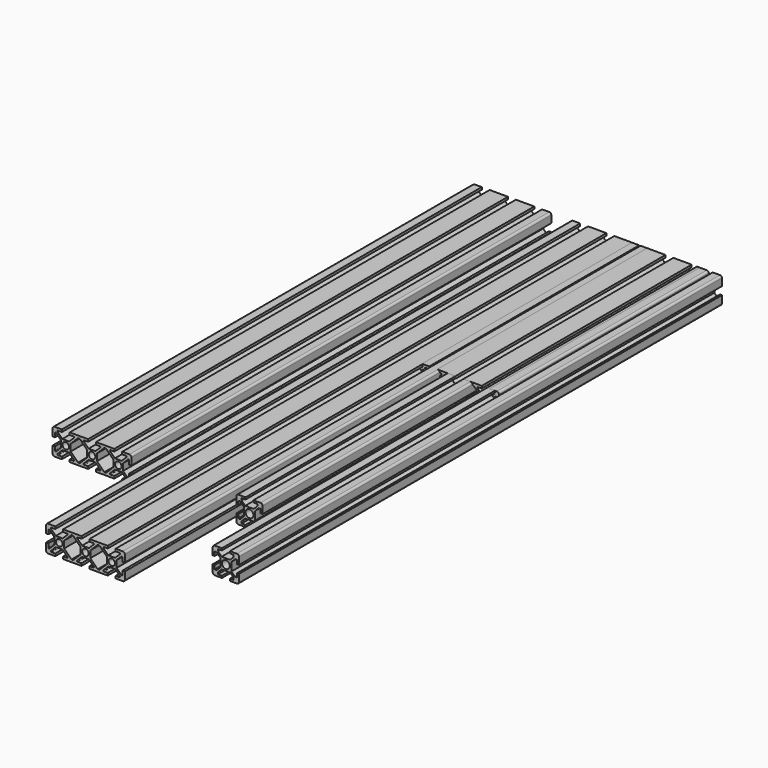
from build123d import *

# Parameters (mm, degrees)
F0_R     = 3
F1_DEPTH = 460
F2_DEPTH = 400
F4_R     = 2.5
F5_DEPTH = 500
F6_DEPTH = 400
F9_DEPTH = 200


with BuildPart() as f1:
    # F0 (on Front) → F1 (new body)
    with BuildSketch(Plane.XZ):
        with BuildLine():
            Line((-6, -7), (-3.25, -4.25))
            Line((-3.25, -4.25), (-4.25, -4.25))
            Line((-4.25, -4.25), (-4.25, -3.25))
            Line((-4.25, -3.25), (-7, -6))
            Line((-7, -6), (-8.5, -6))
            Line((-8.5, -6), (-8.5, -3))
            Line((-8.5, -3), (-10, -3))
            Line((-10, -3), (-10, -8.5))
            ThreePointArc((-10, -8.5), (-9.56066, -9.56066), (-8.5, -10))
            Line((-8.5, -10), (-3, -10))
            Line((-3, -10), (-3, -8.5))
            Line((-3, -8.5), (-6, -8.5))
            Line((-6, -8.5), (-6, -7))
        make_face()
        Polygon((-3.25, -4.25), (3.25, -4.25), (4.25, -4.25), (4.25, -3.25), (4.25, 3.25), (4.25, 4.25), (3.25, 4.25), (-3.25, 4.25), (-4.25, 4.25), (-4.25, 3.25), (-4.25, -3.25), (-4.25, -4.25), align=None)
        Circle(F0_R, mode=Mode.SUBTRACT)
        with BuildLine():
            Line((3, -10), (8.5, -10))
            ThreePointArc((8.5, -10), (9.56066, -9.56066), (10, -8.5))
            Line((10, -8.5), (10, -3))
            Line((10, -3), (8.5, -3))
            Line((8.5, -3), (8.5, -6))
            Line((8.5, -6), (7, -6))
            Line((7, -6), (4.25, -3.25))
            Line((4.25, -3.25), (4.25, -4.25))
            Line((4.25, -4.25), (3.25, -4.25))
            Line((3.25, -4.25), (6, -7))
            Line((6, -7), (6, -8.5))
            Line((6, -8.5), (3, -8.5))
            Line((3, -8.5), (3, -10))
        make_face()
        with BuildLine():
            Line((4.25, 4.25), (4.25, 3.25))
            Line((4.25, 3.25), (7, 6))
            Line((7, 6), (8.5, 6))
            Line((8.5, 6), (8.5, 3))
            Line((8.5, 3), (10, 3))
            Line((10, 3), (10, 8.5))
            ThreePointArc((10, 8.5), (9.56066, 9.56066), (8.5, 10))
            Line((8.5, 10), (3, 10))
            Line((3, 10), (3, 8.5))
            Line((3, 8.5), (6, 8.5))
            Line((6, 8.5), (6, 7))
            Line((6, 7), (3.25, 4.25))
            Line((3.25, 4.25), (4.25, 4.25))
        make_face()
        with BuildLine():
            Line((-7, 6), (-4.25, 3.25))
            Line((-4.25, 3.25), (-4.25, 4.25))
            Line((-4.25, 4.25), (-3.25, 4.25))
            Line((-3.25, 4.25), (-6, 7))
            Line((-6, 7), (-6, 8.5))
            Line((-6, 8.5), (-3, 8.5))
            Line((-3, 8.5), (-3, 10))
            Line((-3, 10), (-8.5, 10))
            ThreePointArc((-8.5, 10), (-9.56066, 9.56066), (-10, 8.5))
            Line((-10, 8.5), (-10, 3))
            Line((-10, 3), (-8.5, 3))
            Line((-8.5, 3), (-8.5, 6))
            Line((-8.5, 6), (-7, 6))
        make_face()
    extrude(amount=F1_DEPTH)


with BuildPart() as f2:
    # F0 (on Front) → F2 (new body)
    with BuildSketch(Plane.XZ):
        with BuildLine():
            Line((-6, -7), (-3.25, -4.25))
            Line((-3.25, -4.25), (-4.25, -4.25))
            Line((-4.25, -4.25), (-4.25, -3.25))
            Line((-4.25, -3.25), (-7, -6))
            Line((-7, -6), (-8.5, -6))
            Line((-8.5, -6), (-8.5, -3))
            Line((-8.5, -3), (-10, -3))
            Line((-10, -3), (-10, -8.5))
            ThreePointArc((-10, -8.5), (-9.56066, -9.56066), (-8.5, -10))
            Line((-8.5, -10), (-3, -10))
            Line((-3, -10), (-3, -8.5))
            Line((-3, -8.5), (-6, -8.5))
            Line((-6, -8.5), (-6, -7))
        make_face()
        Polygon((-3.25, -4.25), (3.25, -4.25), (4.25, -4.25), (4.25, -3.25), (4.25, 3.25), (4.25, 4.25), (3.25, 4.25), (-3.25, 4.25), (-4.25, 4.25), (-4.25, 3.25), (-4.25, -3.25), (-4.25, -4.25), align=None)
        Circle(F0_R, mode=Mode.SUBTRACT)
        with BuildLine():
            Line((3, -10), (8.5, -10))
            ThreePointArc((8.5, -10), (9.56066, -9.56066), (10, -8.5))
            Line((10, -8.5), (10, -3))
            Line((10, -3), (8.5, -3))
            Line((8.5, -3), (8.5, -6))
            Line((8.5, -6), (7, -6))
            Line((7, -6), (4.25, -3.25))
            Line((4.25, -3.25), (4.25, -4.25))
            Line((4.25, -4.25), (3.25, -4.25))
            Line((3.25, -4.25), (6, -7))
            Line((6, -7), (6, -8.5))
            Line((6, -8.5), (3, -8.5))
            Line((3, -8.5), (3, -10))
        make_face()
        with BuildLine():
            Line((4.25, 4.25), (4.25, 3.25))
            Line((4.25, 3.25), (7, 6))
            Line((7, 6), (8.5, 6))
            Line((8.5, 6), (8.5, 3))
            Line((8.5, 3), (10, 3))
            Line((10, 3), (10, 8.5))
            ThreePointArc((10, 8.5), (9.56066, 9.56066), (8.5, 10))
            Line((8.5, 10), (3, 10))
            Line((3, 10), (3, 8.5))
            Line((3, 8.5), (6, 8.5))
            Line((6, 8.5), (6, 7))
            Line((6, 7), (3.25, 4.25))
            Line((3.25, 4.25), (4.25, 4.25))
        make_face()
        with BuildLine():
            Line((-7, 6), (-4.25, 3.25))
            Line((-4.25, 3.25), (-4.25, 4.25))
            Line((-4.25, 4.25), (-3.25, 4.25))
            Line((-3.25, 4.25), (-6, 7))
            Line((-6, 7), (-6, 8.5))
            Line((-6, 8.5), (-3, 8.5))
            Line((-3, 8.5), (-3, 10))
            Line((-3, 10), (-8.5, 10))
            ThreePointArc((-8.5, 10), (-9.56066, 9.56066), (-10, 8.5))
            Line((-10, 8.5), (-10, 3))
            Line((-10, 3), (-8.5, 3))
            Line((-8.5, 3), (-8.5, 6))
            Line((-8.5, 6), (-7, 6))
        make_face()
    extrude(amount=F2_DEPTH)


with BuildPart() as f1_1:
    # F3: moved
    add(f1.part.moved(Location((30, 0, 0))))


with BuildPart() as f5:
    # F4 (on Front) → F5 (new body)
    with BuildSketch(Plane.XZ):
        with BuildLine():
            Line((-23.75, 3.75), (-22.618629, 3.75))
            Line((-22.618629, 3.75), (-26.215076, 7.346447))
            ThreePointArc((-26.215076, 7.346447), (-26.323462, 7.891342), (-25.861522, 8.2))
            Line((-25.861522, 8.2), (-23, 8.2))
            Line((-23, 8.2), (-23, 10))
            Line((-23, 10), (-28.5, 10))
            ThreePointArc((-28.5, 10), (-29.56066, 9.56066), (-30, 8.5))
            Line((-30, 8.5), (-30, 3))
            Line((-30, 3), (-28.2, 3))
            Line((-28.2, 3), (-28.2, 5.861522))
            ThreePointArc((-28.2, 5.861522), (-27.891342, 6.323462), (-27.346447, 6.215076))
            Line((-27.346447, 6.215076), (-23.75, 2.618629))
            Line((-23.75, 2.618629), (-23.75, 3.75))
        make_face()
        Polygon((-16.25, -2.618629), (-16.25, 2.618629), (-16.25, 3.75), (-17.381371, 3.75), (-22.618629, 3.75), (-23.75, 3.75), (-23.75, 2.618629), (-23.75, -2.618629), (-23.75, -3.75), (-22.618629, -3.75), (-17.381371, -3.75), (-16.25, -3.75), align=None)
        with Locations((-20, 0)):
            Circle(F4_R, mode=Mode.SUBTRACT)
        with BuildLine():
            Line((-3.75, 3.75), (-2.618629, 3.75))
            Line((-2.618629, 3.75), (-6.215076, 7.346447))
            ThreePointArc((-6.215076, 7.346447), (-6.323462, 7.891342), (-5.861522, 8.2))
            Line((-5.861522, 8.2), (-3, 8.2))
            Line((-3, 8.2), (-3, 10))
            Line((-3, 10), (-17, 10))
            Line((-17, 10), (-17, 8.2))
            Line((-17, 8.2), (-14.138478, 8.2))
            ThreePointArc((-14.138478, 8.2), (-13.676538, 7.891342), (-13.784924, 7.346447))
            Line((-13.784924, 7.346447), (-17.381371, 3.75))
            Line((-17.381371, 3.75), (-16.25, 3.75))
            Line((-16.25, 3.75), (-16.25, 2.618629))
            Line((-16.25, 2.618629), (-11.8, 7.068629))
            Line((-11.8, 7.068629), (-10.668629, 8.2))
            Line((-10.668629, 8.2), (-10, 8.2))
            Line((-10, 8.2), (-9.331371, 8.2))
            Line((-9.331371, 8.2), (-8.2, 7.068629))
            Line((-8.2, 7.068629), (-3.75, 2.618629))
            Line((-3.75, 2.618629), (-3.75, 3.75))
        make_face()
        Polygon((3.75, 3.75), (2.618629, 3.75), (-2.618629, 3.75), (-3.75, 3.75), (-3.75, 2.618629), (-3.75, -2.618629), (-3.75, -3.75), (-2.618629, -3.75), (2.618629, -3.75), (3.75, -3.75), (3.75, -2.618629), (3.75, 2.618629), align=None)
        Circle(F4_R, mode=Mode.SUBTRACT)
        with BuildLine():
            Line((17, 8.2), (17, 10))
            Line((17, 10), (3, 10))
            Line((3, 10), (3, 8.2))
            Line((3, 8.2), (5.861522, 8.2))
            ThreePointArc((5.861522, 8.2), (6.323462, 7.891342), (6.215076, 7.346447))
            Line((6.215076, 7.346447), (2.618629, 3.75))
            Line((2.618629, 3.75), (3.75, 3.75))
            Line((3.75, 3.75), (3.75, 2.618629))
            Line((3.75, 2.618629), (8.2, 7.068629))
            Line((8.2, 7.068629), (9.331371, 8.2))
            Line((9.331371, 8.2), (10, 8.2))
            Line((10, 8.2), (10.668629, 8.2))
            Line((10.668629, 8.2), (11.8, 7.068629))
            Line((11.8, 7.068629), (16.25, 2.618629))
            Line((16.25, 2.618629), (16.25, 3.75))
            Line((16.25, 3.75), (17.381371, 3.75))
            Line((17.381371, 3.75), (13.784924, 7.346447))
            ThreePointArc((13.784924, 7.346447), (13.676538, 7.891342), (14.138478, 8.2))
            Line((14.138478, 8.2), (17, 8.2))
        make_face()
        Polygon((23.75, 3.75), (22.618629, 3.75), (17.381371, 3.75), (16.25, 3.75), (16.25, 2.618629), (16.25, -2.618629), (16.25, -3.75), (17.381371, -3.75), (22.618629, -3.75), (23.75, -3.75), (23.75, -2.618629), (23.75, 2.618629), align=None)
        with Locations((20, 0)):
            Circle(F4_R, mode=Mode.SUBTRACT)
        with BuildLine():
            ThreePointArc((30, 8.5), (29.56066, 9.56066), (28.5, 10))
            Line((28.5, 10), (23, 10))
            Line((23, 10), (23, 8.2))
            Line((23, 8.2), (25.861522, 8.2))
            ThreePointArc((25.861522, 8.2), (26.323462, 7.891342), (26.215076, 7.346447))
            Line((26.215076, 7.346447), (22.618629, 3.75))
            Line((22.618629, 3.75), (23.75, 3.75))
            Line((23.75, 3.75), (23.75, 2.618629))
            Line((23.75, 2.618629), (27.346447, 6.215076))
            ThreePointArc((27.346447, 6.215076), (27.891342, 6.323462), (28.2, 5.861522))
            Line((28.2, 5.861522), (28.2, 3))
            Line((28.2, 3), (30, 3))
            Line((30, 3), (30, 8.5))
        make_face()
        with BuildLine():
            Line((30, -8.5), (30, -3))
            Line((30, -3), (28.2, -3))
            Line((28.2, -3), (28.2, -5.861522))
            ThreePointArc((28.2, -5.861522), (27.891342, -6.323462), (27.346447, -6.215076))
            Line((27.346447, -6.215076), (23.75, -2.618629))
            Line((23.75, -2.618629), (23.75, -3.75))
            Line((23.75, -3.75), (22.618629, -3.75))
            Line((22.618629, -3.75), (26.215076, -7.346447))
            ThreePointArc((26.215076, -7.346447), (26.323462, -7.891342), (25.861522, -8.2))
            Line((25.861522, -8.2), (23, -8.2))
            Line((23, -8.2), (23, -10))
            Line((23, -10), (28.5, -10))
            ThreePointArc((28.5, -10), (29.56066, -9.56066), (30, -8.5))
        make_face()
        with BuildLine():
            Line((3, -10), (17, -10))
            Line((17, -10), (17, -8.2))
            Line((17, -8.2), (14.138478, -8.2))
            ThreePointArc((14.138478, -8.2), (13.676538, -7.891342), (13.784924, -7.346447))
            Line((13.784924, -7.346447), (17.381371, -3.75))
            Line((17.381371, -3.75), (16.25, -3.75))
            Line((16.25, -3.75), (16.25, -2.618629))
            Line((16.25, -2.618629), (11.8, -7.068629))
            Line((11.8, -7.068629), (10.668629, -8.2))
            Line((10.668629, -8.2), (10, -8.2))
            Line((10, -8.2), (9.331371, -8.2))
            Line((9.331371, -8.2), (8.2, -7.068629))
            Line((8.2, -7.068629), (3.75, -2.618629))
            Line((3.75, -2.618629), (3.75, -3.75))
            Line((3.75, -3.75), (2.618629, -3.75))
            Line((2.618629, -3.75), (6.215076, -7.346447))
            ThreePointArc((6.215076, -7.346447), (6.323462, -7.891342), (5.861522, -8.2))
            Line((5.861522, -8.2), (3, -8.2))
            Line((3, -8.2), (3, -10))
        make_face()
        with BuildLine():
            Line((-3.75, -3.75), (-3.75, -2.618629))
            Line((-3.75, -2.618629), (-8.2, -7.068629))
            Line((-8.2, -7.068629), (-9.331371, -8.2))
            Line((-9.331371, -8.2), (-10, -8.2))
            Line((-10, -8.2), (-10.668629, -8.2))
            Line((-10.668629, -8.2), (-11.8, -7.068629))
            Line((-11.8, -7.068629), (-16.25, -2.618629))
            Line((-16.25, -2.618629), (-16.25, -3.75))
            Line((-16.25, -3.75), (-17.381371, -3.75))
            Line((-17.381371, -3.75), (-13.784924, -7.346447))
            ThreePointArc((-13.784924, -7.346447), (-13.676538, -7.891342), (-14.138478, -8.2))
            Line((-14.138478, -8.2), (-17, -8.2))
            Line((-17, -8.2), (-17, -10))
            Line((-17, -10), (-3, -10))
            Line((-3, -10), (-3, -8.2))
            Line((-3, -8.2), (-5.861522, -8.2))
            ThreePointArc((-5.861522, -8.2), (-6.323462, -7.891342), (-6.215076, -7.346447))
            Line((-6.215076, -7.346447), (-2.618629, -3.75))
            Line((-2.618629, -3.75), (-3.75, -3.75))
        make_face()
        with BuildLine():
            Line((-26.215076, -7.346447), (-22.618629, -3.75))
            Line((-22.618629, -3.75), (-23.75, -3.75))
            Line((-23.75, -3.75), (-23.75, -2.618629))
            Line((-23.75, -2.618629), (-27.346447, -6.215076))
            ThreePointArc((-27.346447, -6.215076), (-27.891342, -6.323462), (-28.2, -5.861522))
            Line((-28.2, -5.861522), (-28.2, -3))
            Line((-28.2, -3), (-30, -3))
            Line((-30, -3), (-30, -8.5))
            ThreePointArc((-30, -8.5), (-29.56066, -9.56066), (-28.5, -10))
            Line((-28.5, -10), (-23, -10))
            Line((-23, -10), (-23, -8.2))
            Line((-23, -8.2), (-25.861522, -8.2))
            ThreePointArc((-25.861522, -8.2), (-26.323462, -7.891342), (-26.215076, -7.346447))
        make_face()
    extrude(amount=F5_DEPTH)


with BuildPart() as f6:
    # F4 (on Front) → F6 (new body)
    with BuildSketch(Plane.XZ):
        with BuildLine():
            Line((-23.75, 3.75), (-22.618629, 3.75))
            Line((-22.618629, 3.75), (-26.215076, 7.346447))
            ThreePointArc((-26.215076, 7.346447), (-26.323462, 7.891342), (-25.861522, 8.2))
            Line((-25.861522, 8.2), (-23, 8.2))
            Line((-23, 8.2), (-23, 10))
            Line((-23, 10), (-28.5, 10))
            ThreePointArc((-28.5, 10), (-29.56066, 9.56066), (-30, 8.5))
            Line((-30, 8.5), (-30, 3))
            Line((-30, 3), (-28.2, 3))
            Line((-28.2, 3), (-28.2, 5.861522))
            ThreePointArc((-28.2, 5.861522), (-27.891342, 6.323462), (-27.346447, 6.215076))
            Line((-27.346447, 6.215076), (-23.75, 2.618629))
            Line((-23.75, 2.618629), (-23.75, 3.75))
        make_face()
        Polygon((-16.25, -2.618629), (-16.25, 2.618629), (-16.25, 3.75), (-17.381371, 3.75), (-22.618629, 3.75), (-23.75, 3.75), (-23.75, 2.618629), (-23.75, -2.618629), (-23.75, -3.75), (-22.618629, -3.75), (-17.381371, -3.75), (-16.25, -3.75), align=None)
        with Locations((-20, 0)):
            Circle(F4_R, mode=Mode.SUBTRACT)
        with BuildLine():
            Line((-3.75, 3.75), (-2.618629, 3.75))
            Line((-2.618629, 3.75), (-6.215076, 7.346447))
            ThreePointArc((-6.215076, 7.346447), (-6.323462, 7.891342), (-5.861522, 8.2))
            Line((-5.861522, 8.2), (-3, 8.2))
            Line((-3, 8.2), (-3, 10))
            Line((-3, 10), (-17, 10))
            Line((-17, 10), (-17, 8.2))
            Line((-17, 8.2), (-14.138478, 8.2))
            ThreePointArc((-14.138478, 8.2), (-13.676538, 7.891342), (-13.784924, 7.346447))
            Line((-13.784924, 7.346447), (-17.381371, 3.75))
            Line((-17.381371, 3.75), (-16.25, 3.75))
            Line((-16.25, 3.75), (-16.25, 2.618629))
            Line((-16.25, 2.618629), (-11.8, 7.068629))
            Line((-11.8, 7.068629), (-10.668629, 8.2))
            Line((-10.668629, 8.2), (-10, 8.2))
            Line((-10, 8.2), (-9.331371, 8.2))
            Line((-9.331371, 8.2), (-8.2, 7.068629))
            Line((-8.2, 7.068629), (-3.75, 2.618629))
            Line((-3.75, 2.618629), (-3.75, 3.75))
        make_face()
        Polygon((3.75, 3.75), (2.618629, 3.75), (-2.618629, 3.75), (-3.75, 3.75), (-3.75, 2.618629), (-3.75, -2.618629), (-3.75, -3.75), (-2.618629, -3.75), (2.618629, -3.75), (3.75, -3.75), (3.75, -2.618629), (3.75, 2.618629), align=None)
        Circle(F4_R, mode=Mode.SUBTRACT)
        with BuildLine():
            Line((17, 8.2), (17, 10))
            Line((17, 10), (3, 10))
            Line((3, 10), (3, 8.2))
            Line((3, 8.2), (5.861522, 8.2))
            ThreePointArc((5.861522, 8.2), (6.323462, 7.891342), (6.215076, 7.346447))
            Line((6.215076, 7.346447), (2.618629, 3.75))
            Line((2.618629, 3.75), (3.75, 3.75))
            Line((3.75, 3.75), (3.75, 2.618629))
            Line((3.75, 2.618629), (8.2, 7.068629))
            Line((8.2, 7.068629), (9.331371, 8.2))
            Line((9.331371, 8.2), (10, 8.2))
            Line((10, 8.2), (10.668629, 8.2))
            Line((10.668629, 8.2), (11.8, 7.068629))
            Line((11.8, 7.068629), (16.25, 2.618629))
            Line((16.25, 2.618629), (16.25, 3.75))
            Line((16.25, 3.75), (17.381371, 3.75))
            Line((17.381371, 3.75), (13.784924, 7.346447))
            ThreePointArc((13.784924, 7.346447), (13.676538, 7.891342), (14.138478, 8.2))
            Line((14.138478, 8.2), (17, 8.2))
        make_face()
        Polygon((23.75, 3.75), (22.618629, 3.75), (17.381371, 3.75), (16.25, 3.75), (16.25, 2.618629), (16.25, -2.618629), (16.25, -3.75), (17.381371, -3.75), (22.618629, -3.75), (23.75, -3.75), (23.75, -2.618629), (23.75, 2.618629), align=None)
        with Locations((20, 0)):
            Circle(F4_R, mode=Mode.SUBTRACT)
        with BuildLine():
            ThreePointArc((30, 8.5), (29.56066, 9.56066), (28.5, 10))
            Line((28.5, 10), (23, 10))
            Line((23, 10), (23, 8.2))
            Line((23, 8.2), (25.861522, 8.2))
            ThreePointArc((25.861522, 8.2), (26.323462, 7.891342), (26.215076, 7.346447))
            Line((26.215076, 7.346447), (22.618629, 3.75))
            Line((22.618629, 3.75), (23.75, 3.75))
            Line((23.75, 3.75), (23.75, 2.618629))
            Line((23.75, 2.618629), (27.346447, 6.215076))
            ThreePointArc((27.346447, 6.215076), (27.891342, 6.323462), (28.2, 5.861522))
            Line((28.2, 5.861522), (28.2, 3))
            Line((28.2, 3), (30, 3))
            Line((30, 3), (30, 8.5))
        make_face()
        with BuildLine():
            Line((30, -8.5), (30, -3))
            Line((30, -3), (28.2, -3))
            Line((28.2, -3), (28.2, -5.861522))
            ThreePointArc((28.2, -5.861522), (27.891342, -6.323462), (27.346447, -6.215076))
            Line((27.346447, -6.215076), (23.75, -2.618629))
            Line((23.75, -2.618629), (23.75, -3.75))
            Line((23.75, -3.75), (22.618629, -3.75))
            Line((22.618629, -3.75), (26.215076, -7.346447))
            ThreePointArc((26.215076, -7.346447), (26.323462, -7.891342), (25.861522, -8.2))
            Line((25.861522, -8.2), (23, -8.2))
            Line((23, -8.2), (23, -10))
            Line((23, -10), (28.5, -10))
            ThreePointArc((28.5, -10), (29.56066, -9.56066), (30, -8.5))
        make_face()
        with BuildLine():
            Line((3, -10), (17, -10))
            Line((17, -10), (17, -8.2))
            Line((17, -8.2), (14.138478, -8.2))
            ThreePointArc((14.138478, -8.2), (13.676538, -7.891342), (13.784924, -7.346447))
            Line((13.784924, -7.346447), (17.381371, -3.75))
            Line((17.381371, -3.75), (16.25, -3.75))
            Line((16.25, -3.75), (16.25, -2.618629))
            Line((16.25, -2.618629), (11.8, -7.068629))
            Line((11.8, -7.068629), (10.668629, -8.2))
            Line((10.668629, -8.2), (10, -8.2))
            Line((10, -8.2), (9.331371, -8.2))
            Line((9.331371, -8.2), (8.2, -7.068629))
            Line((8.2, -7.068629), (3.75, -2.618629))
            Line((3.75, -2.618629), (3.75, -3.75))
            Line((3.75, -3.75), (2.618629, -3.75))
            Line((2.618629, -3.75), (6.215076, -7.346447))
            ThreePointArc((6.215076, -7.346447), (6.323462, -7.891342), (5.861522, -8.2))
            Line((5.861522, -8.2), (3, -8.2))
            Line((3, -8.2), (3, -10))
        make_face()
        with BuildLine():
            Line((-3.75, -3.75), (-3.75, -2.618629))
            Line((-3.75, -2.618629), (-8.2, -7.068629))
            Line((-8.2, -7.068629), (-9.331371, -8.2))
            Line((-9.331371, -8.2), (-10, -8.2))
            Line((-10, -8.2), (-10.668629, -8.2))
            Line((-10.668629, -8.2), (-11.8, -7.068629))
            Line((-11.8, -7.068629), (-16.25, -2.618629))
            Line((-16.25, -2.618629), (-16.25, -3.75))
            Line((-16.25, -3.75), (-17.381371, -3.75))
            Line((-17.381371, -3.75), (-13.784924, -7.346447))
            ThreePointArc((-13.784924, -7.346447), (-13.676538, -7.891342), (-14.138478, -8.2))
            Line((-14.138478, -8.2), (-17, -8.2))
            Line((-17, -8.2), (-17, -10))
            Line((-17, -10), (-3, -10))
            Line((-3, -10), (-3, -8.2))
            Line((-3, -8.2), (-5.861522, -8.2))
            ThreePointArc((-5.861522, -8.2), (-6.323462, -7.891342), (-6.215076, -7.346447))
            Line((-6.215076, -7.346447), (-2.618629, -3.75))
            Line((-2.618629, -3.75), (-3.75, -3.75))
        make_face()
        with BuildLine():
            Line((-26.215076, -7.346447), (-22.618629, -3.75))
            Line((-22.618629, -3.75), (-23.75, -3.75))
            Line((-23.75, -3.75), (-23.75, -2.618629))
            Line((-23.75, -2.618629), (-27.346447, -6.215076))
            ThreePointArc((-27.346447, -6.215076), (-27.891342, -6.323462), (-28.2, -5.861522))
            Line((-28.2, -5.861522), (-28.2, -3))
            Line((-28.2, -3), (-30, -3))
            Line((-30, -3), (-30, -8.5))
            ThreePointArc((-30, -8.5), (-29.56066, -9.56066), (-28.5, -10))
            Line((-28.5, -10), (-23, -10))
            Line((-23, -10), (-23, -8.2))
            Line((-23, -8.2), (-25.861522, -8.2))
            ThreePointArc((-25.861522, -8.2), (-26.323462, -7.891342), (-26.215076, -7.346447))
        make_face()
    extrude(amount=F6_DEPTH)


with BuildPart() as f5_1:
    # F7: moved
    add(f5.part.moved(Location((-45, 0, 0))))


with BuildPart() as f6_1:
    # F8: moved
    add(f6.part.moved(Location((-120, 0, 0))))


with BuildPart() as f9:
    # F4 (on Front) → F9 (new body)
    with BuildSketch(Plane.XZ):
        with BuildLine():
            Line((-23.75, 3.75), (-22.618629, 3.75))
            Line((-22.618629, 3.75), (-26.215076, 7.346447))
            ThreePointArc((-26.215076, 7.346447), (-26.323462, 7.891342), (-25.861522, 8.2))
            Line((-25.861522, 8.2), (-23, 8.2))
            Line((-23, 8.2), (-23, 10))
            Line((-23, 10), (-28.5, 10))
            ThreePointArc((-28.5, 10), (-29.56066, 9.56066), (-30, 8.5))
            Line((-30, 8.5), (-30, 3))
            Line((-30, 3), (-28.2, 3))
            Line((-28.2, 3), (-28.2, 5.861522))
            ThreePointArc((-28.2, 5.861522), (-27.891342, 6.323462), (-27.346447, 6.215076))
            Line((-27.346447, 6.215076), (-23.75, 2.618629))
            Line((-23.75, 2.618629), (-23.75, 3.75))
        make_face()
        Polygon((-16.25, -2.618629), (-16.25, 2.618629), (-16.25, 3.75), (-17.381371, 3.75), (-22.618629, 3.75), (-23.75, 3.75), (-23.75, 2.618629), (-23.75, -2.618629), (-23.75, -3.75), (-22.618629, -3.75), (-17.381371, -3.75), (-16.25, -3.75), align=None)
        with Locations((-20, 0)):
            Circle(F4_R, mode=Mode.SUBTRACT)
        with BuildLine():
            Line((-3.75, 3.75), (-2.618629, 3.75))
            Line((-2.618629, 3.75), (-6.215076, 7.346447))
            ThreePointArc((-6.215076, 7.346447), (-6.323462, 7.891342), (-5.861522, 8.2))
            Line((-5.861522, 8.2), (-3, 8.2))
            Line((-3, 8.2), (-3, 10))
            Line((-3, 10), (-17, 10))
            Line((-17, 10), (-17, 8.2))
            Line((-17, 8.2), (-14.138478, 8.2))
            ThreePointArc((-14.138478, 8.2), (-13.676538, 7.891342), (-13.784924, 7.346447))
            Line((-13.784924, 7.346447), (-17.381371, 3.75))
            Line((-17.381371, 3.75), (-16.25, 3.75))
            Line((-16.25, 3.75), (-16.25, 2.618629))
            Line((-16.25, 2.618629), (-11.8, 7.068629))
            Line((-11.8, 7.068629), (-10.668629, 8.2))
            Line((-10.668629, 8.2), (-10, 8.2))
            Line((-10, 8.2), (-9.331371, 8.2))
            Line((-9.331371, 8.2), (-8.2, 7.068629))
            Line((-8.2, 7.068629), (-3.75, 2.618629))
            Line((-3.75, 2.618629), (-3.75, 3.75))
        make_face()
        Polygon((3.75, 3.75), (2.618629, 3.75), (-2.618629, 3.75), (-3.75, 3.75), (-3.75, 2.618629), (-3.75, -2.618629), (-3.75, -3.75), (-2.618629, -3.75), (2.618629, -3.75), (3.75, -3.75), (3.75, -2.618629), (3.75, 2.618629), align=None)
        Circle(F4_R, mode=Mode.SUBTRACT)
        with BuildLine():
            Line((17, 8.2), (17, 10))
            Line((17, 10), (3, 10))
            Line((3, 10), (3, 8.2))
            Line((3, 8.2), (5.861522, 8.2))
            ThreePointArc((5.861522, 8.2), (6.323462, 7.891342), (6.215076, 7.346447))
            Line((6.215076, 7.346447), (2.618629, 3.75))
            Line((2.618629, 3.75), (3.75, 3.75))
            Line((3.75, 3.75), (3.75, 2.618629))
            Line((3.75, 2.618629), (8.2, 7.068629))
            Line((8.2, 7.068629), (9.331371, 8.2))
            Line((9.331371, 8.2), (10, 8.2))
            Line((10, 8.2), (10.668629, 8.2))
            Line((10.668629, 8.2), (11.8, 7.068629))
            Line((11.8, 7.068629), (16.25, 2.618629))
            Line((16.25, 2.618629), (16.25, 3.75))
            Line((16.25, 3.75), (17.381371, 3.75))
            Line((17.381371, 3.75), (13.784924, 7.346447))
            ThreePointArc((13.784924, 7.346447), (13.676538, 7.891342), (14.138478, 8.2))
            Line((14.138478, 8.2), (17, 8.2))
        make_face()
        with BuildLine():
            ThreePointArc((30, 8.5), (29.56066, 9.56066), (28.5, 10))
            Line((28.5, 10), (23, 10))
            Line((23, 10), (23, 8.2))
            Line((23, 8.2), (25.861522, 8.2))
            ThreePointArc((25.861522, 8.2), (26.323462, 7.891342), (26.215076, 7.346447))
            Line((26.215076, 7.346447), (22.618629, 3.75))
            Line((22.618629, 3.75), (23.75, 3.75))
            Line((23.75, 3.75), (23.75, 2.618629))
            Line((23.75, 2.618629), (27.346447, 6.215076))
            ThreePointArc((27.346447, 6.215076), (27.891342, 6.323462), (28.2, 5.861522))
            Line((28.2, 5.861522), (28.2, 3))
            Line((28.2, 3), (30, 3))
            Line((30, 3), (30, 8.5))
        make_face()
        Polygon((23.75, 3.75), (22.618629, 3.75), (17.381371, 3.75), (16.25, 3.75), (16.25, 2.618629), (16.25, -2.618629), (16.25, -3.75), (17.381371, -3.75), (22.618629, -3.75), (23.75, -3.75), (23.75, -2.618629), (23.75, 2.618629), align=None)
        with Locations((20, 0)):
            Circle(F4_R, mode=Mode.SUBTRACT)
        with BuildLine():
            Line((30, -8.5), (30, -3))
            Line((30, -3), (28.2, -3))
            Line((28.2, -3), (28.2, -5.861522))
            ThreePointArc((28.2, -5.861522), (27.891342, -6.323462), (27.346447, -6.215076))
            Line((27.346447, -6.215076), (23.75, -2.618629))
            Line((23.75, -2.618629), (23.75, -3.75))
            Line((23.75, -3.75), (22.618629, -3.75))
            Line((22.618629, -3.75), (26.215076, -7.346447))
            ThreePointArc((26.215076, -7.346447), (26.323462, -7.891342), (25.861522, -8.2))
            Line((25.861522, -8.2), (23, -8.2))
            Line((23, -8.2), (23, -10))
            Line((23, -10), (28.5, -10))
            ThreePointArc((28.5, -10), (29.56066, -9.56066), (30, -8.5))
        make_face()
        with BuildLine():
            Line((3, -10), (17, -10))
            Line((17, -10), (17, -8.2))
            Line((17, -8.2), (14.138478, -8.2))
            ThreePointArc((14.138478, -8.2), (13.676538, -7.891342), (13.784924, -7.346447))
            Line((13.784924, -7.346447), (17.381371, -3.75))
            Line((17.381371, -3.75), (16.25, -3.75))
            Line((16.25, -3.75), (16.25, -2.618629))
            Line((16.25, -2.618629), (11.8, -7.068629))
            Line((11.8, -7.068629), (10.668629, -8.2))
            Line((10.668629, -8.2), (10, -8.2))
            Line((10, -8.2), (9.331371, -8.2))
            Line((9.331371, -8.2), (8.2, -7.068629))
            Line((8.2, -7.068629), (3.75, -2.618629))
            Line((3.75, -2.618629), (3.75, -3.75))
            Line((3.75, -3.75), (2.618629, -3.75))
            Line((2.618629, -3.75), (6.215076, -7.346447))
            ThreePointArc((6.215076, -7.346447), (6.323462, -7.891342), (5.861522, -8.2))
            Line((5.861522, -8.2), (3, -8.2))
            Line((3, -8.2), (3, -10))
        make_face()
        with BuildLine():
            Line((-3.75, -3.75), (-3.75, -2.618629))
            Line((-3.75, -2.618629), (-8.2, -7.068629))
            Line((-8.2, -7.068629), (-9.331371, -8.2))
            Line((-9.331371, -8.2), (-10, -8.2))
            Line((-10, -8.2), (-10.668629, -8.2))
            Line((-10.668629, -8.2), (-11.8, -7.068629))
            Line((-11.8, -7.068629), (-16.25, -2.618629))
            Line((-16.25, -2.618629), (-16.25, -3.75))
            Line((-16.25, -3.75), (-17.381371, -3.75))
            Line((-17.381371, -3.75), (-13.784924, -7.346447))
            ThreePointArc((-13.784924, -7.346447), (-13.676538, -7.891342), (-14.138478, -8.2))
            Line((-14.138478, -8.2), (-17, -8.2))
            Line((-17, -8.2), (-17, -10))
            Line((-17, -10), (-3, -10))
            Line((-3, -10), (-3, -8.2))
            Line((-3, -8.2), (-5.861522, -8.2))
            ThreePointArc((-5.861522, -8.2), (-6.323462, -7.891342), (-6.215076, -7.346447))
            Line((-6.215076, -7.346447), (-2.618629, -3.75))
            Line((-2.618629, -3.75), (-3.75, -3.75))
        make_face()
        with BuildLine():
            Line((-26.215076, -7.346447), (-22.618629, -3.75))
            Line((-22.618629, -3.75), (-23.75, -3.75))
            Line((-23.75, -3.75), (-23.75, -2.618629))
            Line((-23.75, -2.618629), (-27.346447, -6.215076))
            ThreePointArc((-27.346447, -6.215076), (-27.891342, -6.323462), (-28.2, -5.861522))
            Line((-28.2, -5.861522), (-28.2, -3))
            Line((-28.2, -3), (-30, -3))
            Line((-30, -3), (-30, -8.5))
            ThreePointArc((-30, -8.5), (-29.56066, -9.56066), (-28.5, -10))
            Line((-28.5, -10), (-23, -10))
            Line((-23, -10), (-23, -8.2))
            Line((-23, -8.2), (-25.861522, -8.2))
            ThreePointArc((-25.861522, -8.2), (-26.323462, -7.891342), (-26.215076, -7.346447))
        make_face()
    extrude(amount=F9_DEPTH)


solid = Compound([f2.part, f1_1.part, f5_1.part, f6_1.part, f9.part])
